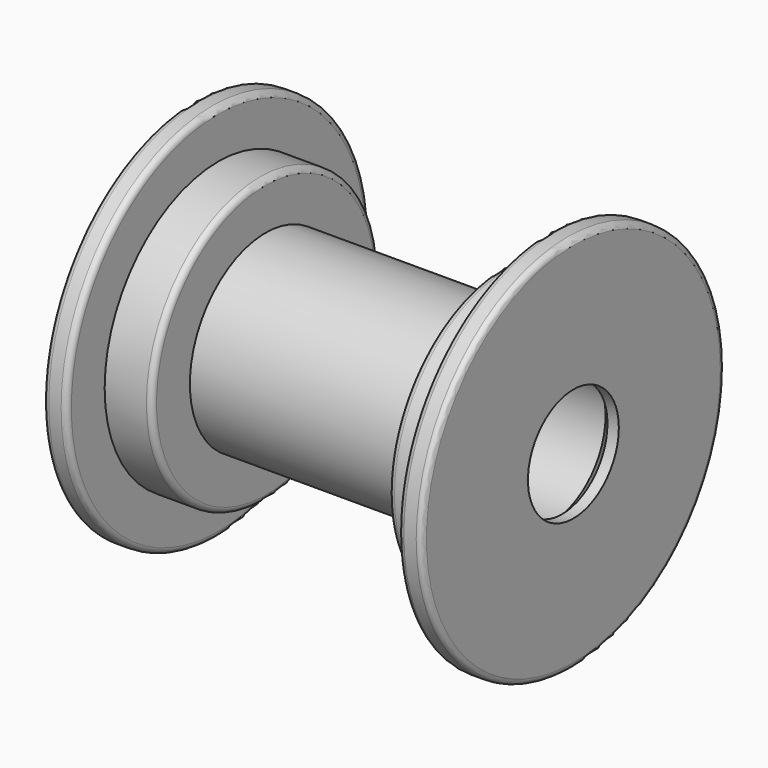
from build123d import *


with BuildPart() as f1:
    # F0 (on Top) → F1 (revolve)
    with BuildSketch(Plane.XY):
        with BuildLine():
            Line((15.875, 12.7), (0, 12.7))
            Line((0, 12.7), (0, 8.89))
            Line((0, 8.89), (22.606, 8.89))
            Line((22.606, 8.89), (23.876, 7.62))
            Line((23.876, 7.62), (25.4, 7.62))
            Line((25.4, 7.62), (25.4, 24.638))
            ThreePointArc((25.4, 24.638), (25.176815, 25.176815), (24.638, 25.4))
            Line((24.638, 25.4), (22.987, 25.4))
            ThreePointArc((22.987, 25.4), (22.448185, 25.176815), (22.225, 24.638))
            Line((22.225, 24.638), (22.225, 19.05))
            Line((22.225, 19.05), (16.637, 19.05))
            ThreePointArc((16.637, 19.05), (16.098185, 18.826815), (15.875, 18.288))
            Line((15.875, 18.288), (15.875, 12.7))
        make_face()
    revolve(axis=Axis((24.644868, 0, 0), (1, 0, 0)))

    # F2: F1 across face


with BuildPart() as f1_1:
    add(f1.part)
    add(f1.part.mirror(Plane(origin=(0, 0, 0), x_dir=(0, -1, 0), z_dir=(-1, 0, 0))))


solid = f1_1.part
